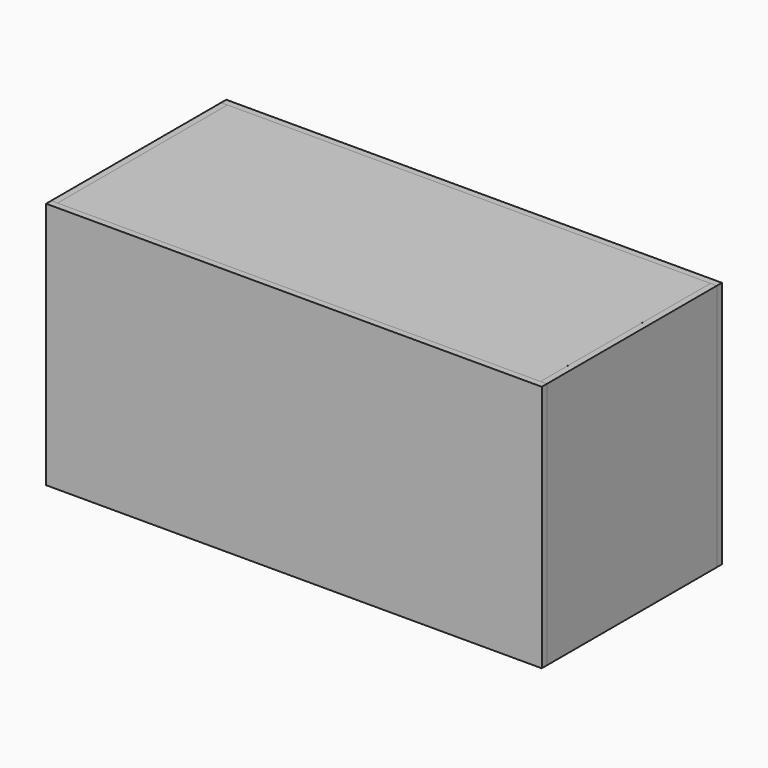
from build123d import *

# Parameters (mm, degrees)
F0_W     = 1400
F0_H     = 700
F2_DEPTH = 18
F1_W     = 18
F1_H     = 700
F3_DEPTH = 600
F5_W     = 1363.992185
F5_H     = 18
F6_DEPTH = 600
F4_W     = 1400
F4_H     = 700
F7_DEPTH = 18
F9_DEPTH = 25


with BuildPart() as f2:
    # F0 (on Front) → F2 (new body)
    with BuildSketch(Plane.XZ):
        Rectangle(F0_W, F0_H)
    extrude(amount=-F2_DEPTH)


with BuildPart() as f3:
    # F1 (on Front) → F3 (new body)
    with BuildSketch(Plane.XZ):
        with Locations((-691, 0)):
            Rectangle(F1_W, F1_H)
        with Locations((691, 0)):
            Rectangle(F1_W, F1_H)
    extrude(amount=F3_DEPTH)


with BuildPart() as f6:
    # F5 (on Front) → F6 (new body)
    with BuildSketch(Plane.XZ):
        with Locations((-0.003908, 341)):
            Rectangle(F5_W, F5_H)
        with Locations((-0.003908, -341)):
            Rectangle(F5_W, F5_H)
    extrude(amount=F6_DEPTH)

    # F8 (on face) → F9 (cut)
    with BuildSketch(Plane(origin=(0, 0, -350), x_dir=(1, 0, 0), z_dir=(0, 0, -1))):
        with BuildLine():
            Line((398.614138, 506.217659), (-395.5805, 506.217659))
            ThreePointArc((-395.5805, 506.217659), (-478.134396, 472.022715), (-512.32934, 389.468818))
            Line((-512.32934, 389.468818), (-512.32934, 0))
            Line((-512.32934, 0), (-217.208087, 0))
            Line((-217.208087, 0), (-217.208087, 99.188645))
            ThreePointArc((-217.208087, 99.188645), (-202.563427, 134.543984), (-167.208087, 149.188645))
            Line((-167.208087, 149.188645), (398.614138, 149.188645))
            ThreePointArc((398.614138, 149.188645), (481.168034, 183.383589), (515.362978, 265.937485))
            Line((515.362978, 265.937485), (515.362978, 389.468818))
            ThreePointArc((515.362978, 389.468818), (481.168034, 472.022715), (398.614138, 506.217659))
        make_face()
    extrude(amount=-F9_DEPTH, mode=Mode.SUBTRACT)


with BuildPart() as f7:
    # F4 (on face) → F7 (new body)
    with BuildSketch(Plane.XZ.offset(600)):
        Rectangle(F4_W, F4_H)
    extrude(amount=F7_DEPTH)


solid = Compound([f2.part, f3.part, f6.part, f7.part])
